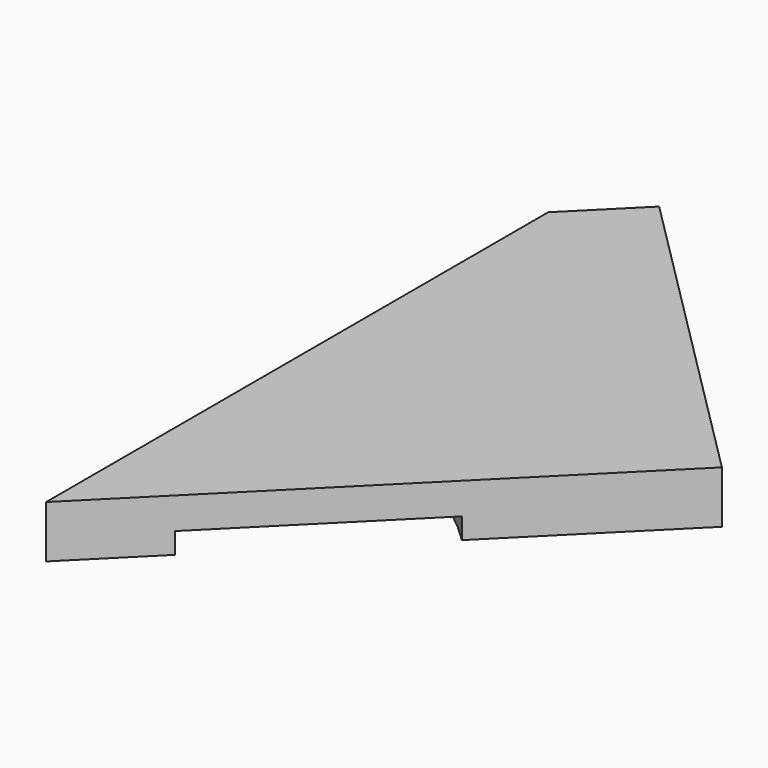
from build123d import *

# Parameters (mm, degrees)
F0_W      = 228.6
F0_H      = 228.6
F1_DEPTH  = 19.05
F3_DEPTH  = 19.051
F5_DEPTH  = 63.5
F7_W      = 77.47
F7_H      = 7.62
F8_DEPTH  = 33.02
F6_W      = 161.6446101792
F6_H      = 19.05
F6_W_2    = 76.2
F6_H_2    = 6.35
F9_DEPTH  = 31.75
F11_W     = 33.95681642
F11_H     = 16.0381817259
F12_ANGLE = 35


with BuildPart() as f1:
    # F0 (on Top) → F1 (new body)
    with BuildSketch(Plane.XY):
        with Locations((4.8490930349, 10.9562167545)):
            Rectangle(F0_W, F0_H)
    extrude(amount=F1_DEPTH)

    # F2 (on face) → F3 (cut, through all)
    with BuildSketch(Plane.XY.offset(19.05)):
        Polygon((155.7185798883, -103.3437832455), (119.1490930349, 125.2562167545), (-109.4509069651, -103.3437832455), align=None)
    extrude(amount=-F3_DEPTH, mode=Mode.SUBTRACT)

    # F4 (on face) → F5 (cut, symmetric)
    with BuildSketch(Plane.XY.offset(19.05)):
        Polygon((150.6341397762, 139.1298025846), (-109.4509069651, 125.2562167545), (4.8490930349, 10.9562167545), align=None)
    extrude(amount=F5_DEPTH, both=True, mode=Mode.SUBTRACT)

    # F7 (on face) → F8 (cut)
    with BuildSketch(Plane(origin=(-3.0535618598, 3.0535618598, 0), x_dir=(0.7071067812, 0.7071067812, 0), z_dir=(0.7071067812, -0.7071067812, 0))):
        with Locations((-74.9035684484, 3.81)):
            Rectangle(F7_W, F7_H)
    extrude(amount=-F8_DEPTH, mode=Mode.SUBTRACT)

    # F6 (on face) → F9 (join)
    with BuildSketch(Plane(origin=(7.9026548947, 7.9026548947, 0), x_dir=(-0.7071067812, 0.7071067812, 0), z_dir=(0.7071067812, 0.7071067812, 0))):
        with Locations((85.1406936854, 9.525)):
            Rectangle(F6_W, F6_H)
        with Locations((89.8955209156, 6.35)):
            Rectangle(F6_W_2, F6_H_2, mode=Mode.SUBTRACT)
    extrude(amount=F9_DEPTH)

    # F11 (on 3pt) → F12 (revolve, cut)
    with BuildSketch(Plane(origin=(-40.1975363097, 22.1779510674, 0), x_dir=(-0.4830773429, -0.875577684, 0), z_dir=(-0.875577684, 0.4830773429, 0))):
        with Locations((41.3631814837, -0.3990908629)):
            Rectangle(F11_W, F11_H)
    revolve(axis=Axis((-109.4509069651, -103.3437832455, 9.525), (0, 0, -1)), revolution_arc=F12_ANGLE, mode=Mode.SUBTRACT)


solid = f1.part
